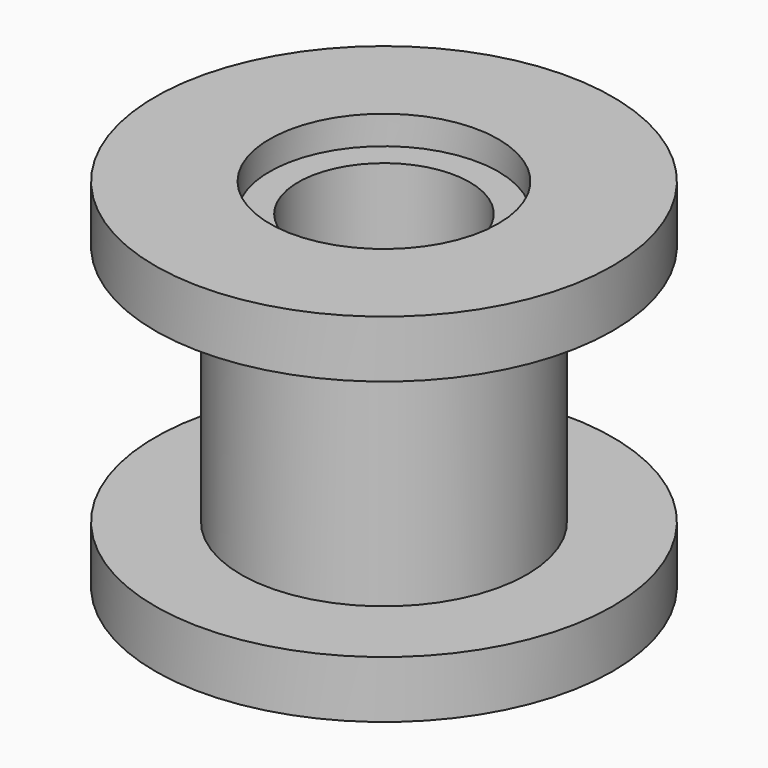
from build123d import *

# Parameters (mm, degrees)
F0_R     = 4
F0_R_2   = 2
F5_DEPTH = 0.5
F2_R     = 2.5
F2_R_2   = 1.5
F6_DEPTH = 2.62
F4_R     = 4
F4_R_2   = 2
F7_DEPTH = 0.5


with BuildPart() as f5:
    # F0 (on Top) → F5 (new body, symmetric)
    with BuildSketch(Plane.XY):
        Circle(F0_R)
        Circle(F0_R_2, mode=Mode.SUBTRACT)
    extrude(amount=F5_DEPTH, both=True)

    # F2 (on offset) → F6 (join, symmetric)
    with BuildSketch(Plane.XY.offset(2.62)):
        Circle(F2_R)
        Circle(F2_R_2, mode=Mode.SUBTRACT)
    extrude(amount=F6_DEPTH, both=True)

    # F4 (on offset) → F7 (join, symmetric)
    with BuildSketch(Plane.XY.offset(5.24)):
        Circle(F4_R)
        Circle(F4_R_2, mode=Mode.SUBTRACT)
    extrude(amount=F7_DEPTH, both=True)


solid = f5.part
